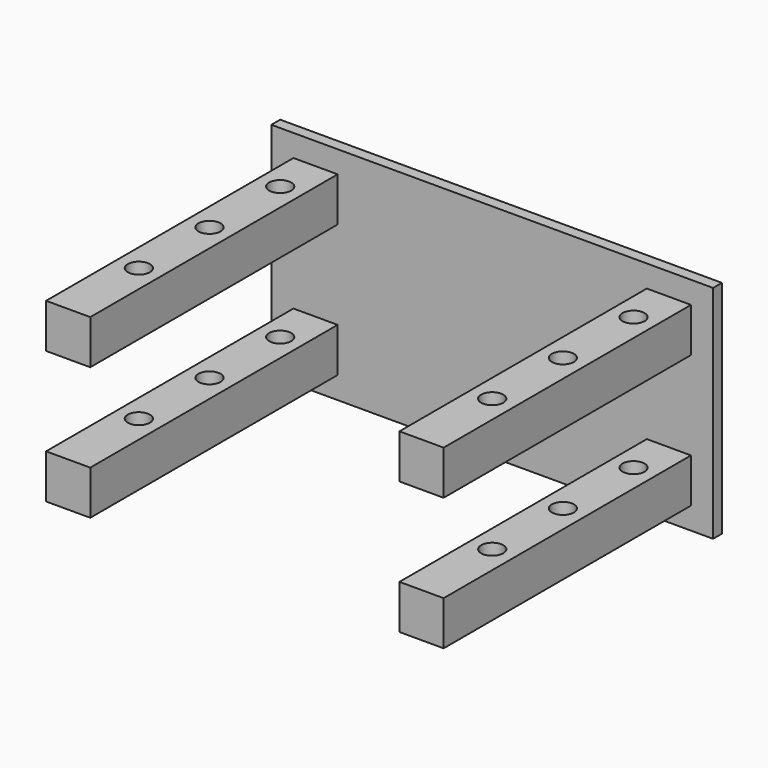
from build123d import *

# Parameters (mm, degrees)
F0_W     = 500
F0_H     = 250
F1_DEPTH = 25
F2_W     = 100
F2_H     = 100
F3_DEPTH = 725
F5_D     = 50


with BuildPart() as f1:
    # F0 (on Front) → F1 (new body)
    with BuildSketch(Plane.XZ):
        with Locations((143.392576, 85.347861)):
            Rectangle(F0_W, F0_H)
    extrude(amount=F1_DEPTH)

    # F2 (on Front) → F3 (join)
    with BuildSketch(Plane.XZ):
        with Locations((-6.607424, 60.347861)):
            Rectangle(F2_W, F2_H)
    extrude(amount=F3_DEPTH)

    # F5 (through all)
    with Locations(Plane.XY.offset(110.347861)):
        with Locations((-6.607424, -125), (-6.607424, -325), (-6.607424, -525)):
            Hole(F5_D / 2)

    # F7: F1 across plane


with BuildPart() as f1_1:
    add(f1.part)
    add(f1.part.mirror(Plane(origin=(393.392576, -12.5, 85.347861), x_dir=(0, 1, 0), z_dir=(1, 0, 0))))

    # F9: F1 across plane


with BuildPart() as f1_2:
    add(f1_1.part)
    add(f1_1.part.mirror(Plane(origin=(393.392576, -12.5, 210.347861), x_dir=(1, 0, 0), z_dir=(0, 0, 1))))


solid = f1_2.part
